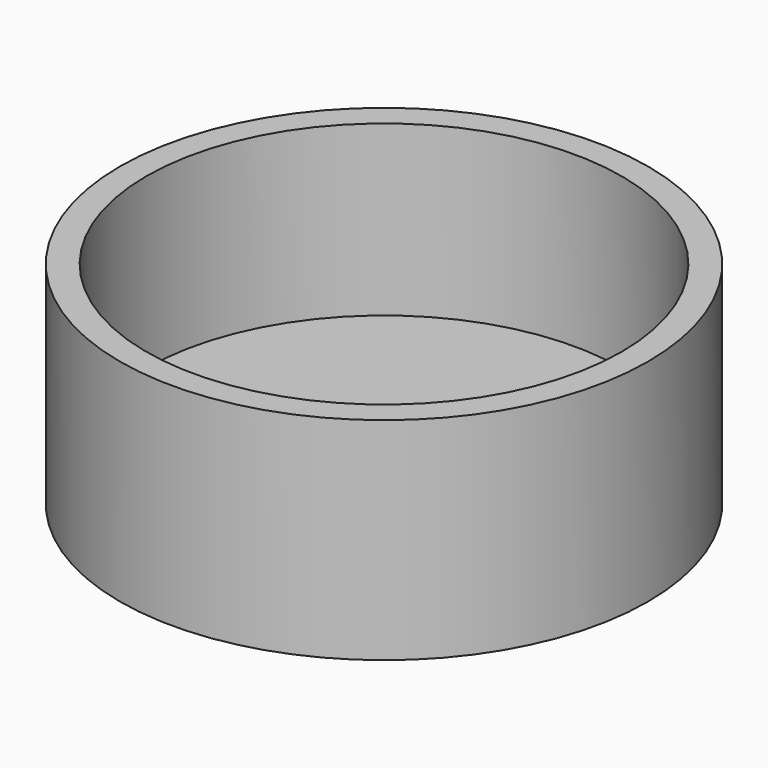
from build123d import *

# Parameters (mm, degrees)
F0_R     = 12.5
F1_DEPTH = 10
F2_R     = 4
F3_DEPTH = 25
F2_R_2   = 11.25
F4_DEPTH = 8


with BuildPart() as f1:
    # F0 (on Top) → F1 (new body)
    with BuildSketch(Plane.XY):
        Circle(F0_R)
    extrude(amount=F1_DEPTH)

    # F2 (on face) → F3 (cut)
    with BuildSketch(Plane.XY.offset(10)):
        Circle(F2_R)
    extrude(amount=-F3_DEPTH, mode=Mode.SUBTRACT)

    # F2 (on face) → F4 (cut)
    with BuildSketch(Plane.XY.offset(10)):
        Circle(F2_R_2)
        Circle(F2_R, mode=Mode.SUBTRACT)
    extrude(amount=-F4_DEPTH, mode=Mode.SUBTRACT)


solid = f1.part
